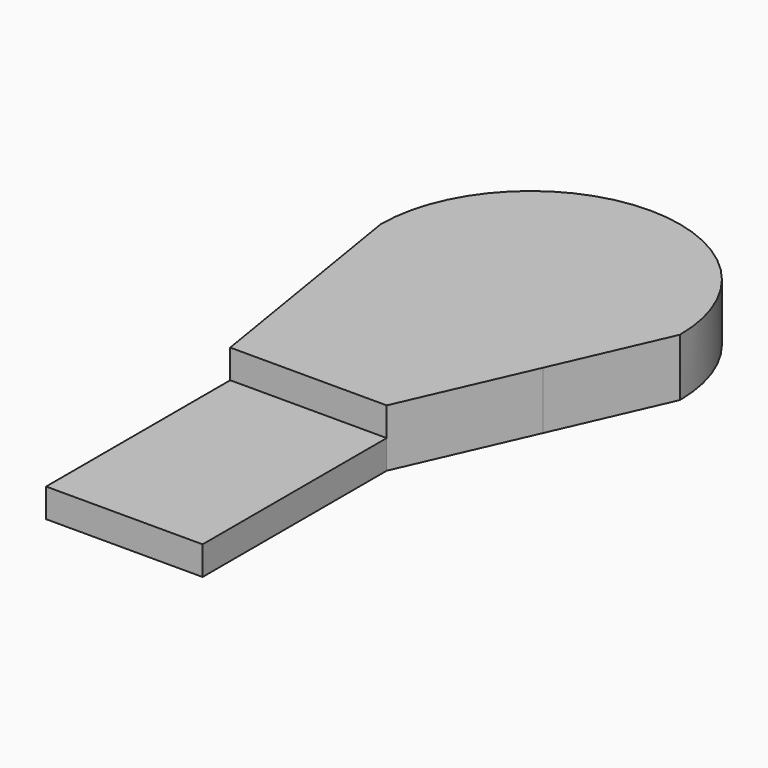
from build123d import *

# Parameters (mm, degrees)
F1_DEPTH = 25
F2_R     = 43.2644605555
F3_DEPTH = 20
F4_W     = 100
F4_H     = 12.5
F5_DEPTH = 113.2522414455


with BuildPart() as f1:
    # F0 (on Top) → F1 (new body)
    with BuildSketch(Plane.XY):
        with BuildLine():
            Line((43.8576357287, -47.9740324372), (65, 0))
            ThreePointArc((65, 0), (0, 65), (-65, 0))
            Line((-65, 0), (-61.6307134035, -20.655632776))
            ThreePointArc((-61.6307134035, -20.655632776), (-16.2955304461, -62.9242058947), (43.8576357287, -47.9740324372))
        make_face()
        with BuildLine():
            Line((19.7487585545, -102.6793643832), (43.8576357287, -47.9740324372))
            ThreePointArc((43.8576357287, -47.9740324372), (-16.2955304461, -62.9242058947), (-61.6307134035, -20.655632776))
            Line((-61.6307134035, -20.655632776), (-48.2512414455, -102.6793643832))
            Line((-48.2512414455, -102.6793643832), (-48.2512414455, -202.6793643832))
            Line((-48.2512414455, -202.6793643832), (19.7487585545, -202.6793643832))
            Line((19.7487585545, -202.6793643832), (19.7487585545, -102.6793643832))
        make_face()
    extrude(amount=F1_DEPTH)

    # F2 (on face) → F3 (cut)
    with BuildSketch(Plane(origin=(0, 0, 0), x_dir=(1, 0, 0), z_dir=(0, 0, -1))):
        with Locations((-8.1178825349, 0)):
            Circle(F2_R)
    extrude(amount=-F3_DEPTH, mode=Mode.SUBTRACT)

    # F4 (on face) → F5 (cut, through all)
    with BuildSketch(Plane(origin=(-48.2512414455, 0, 0), x_dir=(0, -1, 0), z_dir=(-1, 0, 0))):
        with Locations((152.6793643832, 18.75)):
            Rectangle(F4_W, F4_H)
    extrude(amount=-F5_DEPTH, mode=Mode.SUBTRACT)


solid = f1.part
